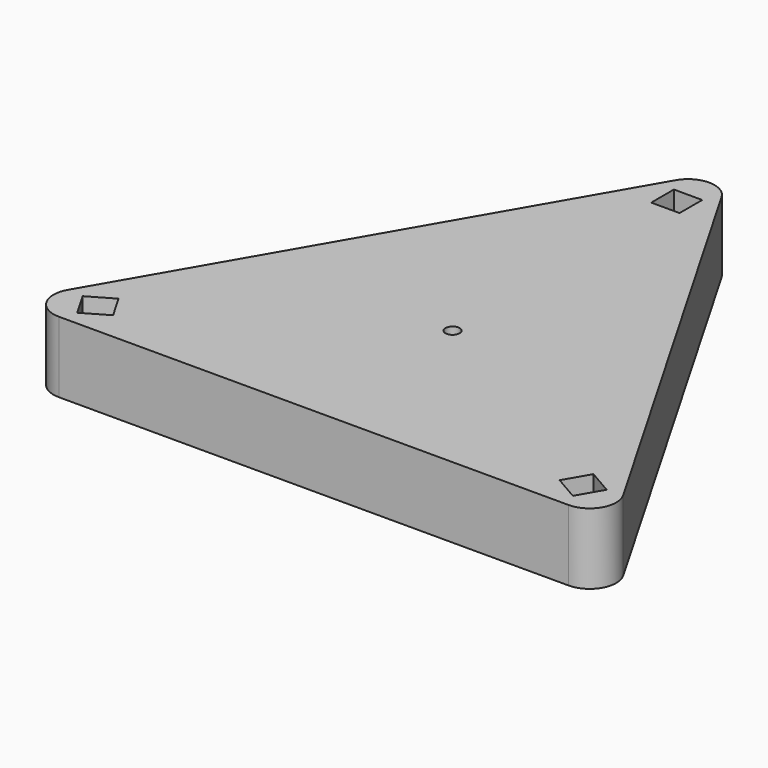
from build123d import *

# Parameters (mm, degrees)
F0_R     = 5
F0_W     = 20
F0_H     = 20
F1_DEPTH = 50


with BuildPart() as f1:
    # F0 (on Top) → F1 (new body)
    with BuildSketch(Plane.XY):
        with BuildLine():
            Line((-16.160254, 216.968965), (-195.980762, -94.489292))
            ThreePointArc((-195.980762, -94.489292), (-195.980762, -113.149546), (-179.820508, -122.479673))
            Line((-179.820508, -122.479673), (179.820508, -122.479673))
            ThreePointArc((179.820508, -122.479673), (195.980762, -113.149546), (195.980762, -94.489292))
            Line((195.980762, -94.489292), (16.160254, 216.968965))
            ThreePointArc((16.160254, 216.968965), (0, 226.299092), (-16.160254, 216.968965))
        make_face()
        Polygon((-167.5, -85.159165), (-157.5, -102.479673), (-174.820508, -112.479673), (-184.820508, -95.159165), align=None, mode=Mode.SUBTRACT)
        Circle(F0_R, mode=Mode.SUBTRACT)
        Polygon((157.5, -102.479673), (167.5, -85.159165), (184.820508, -95.159165), (174.820508, -112.479673), align=None, mode=Mode.SUBTRACT)
        with Locations((0, 197.638837)):
            Rectangle(F0_W, F0_H, mode=Mode.SUBTRACT)
    extrude(amount=F1_DEPTH)


solid = f1.part
